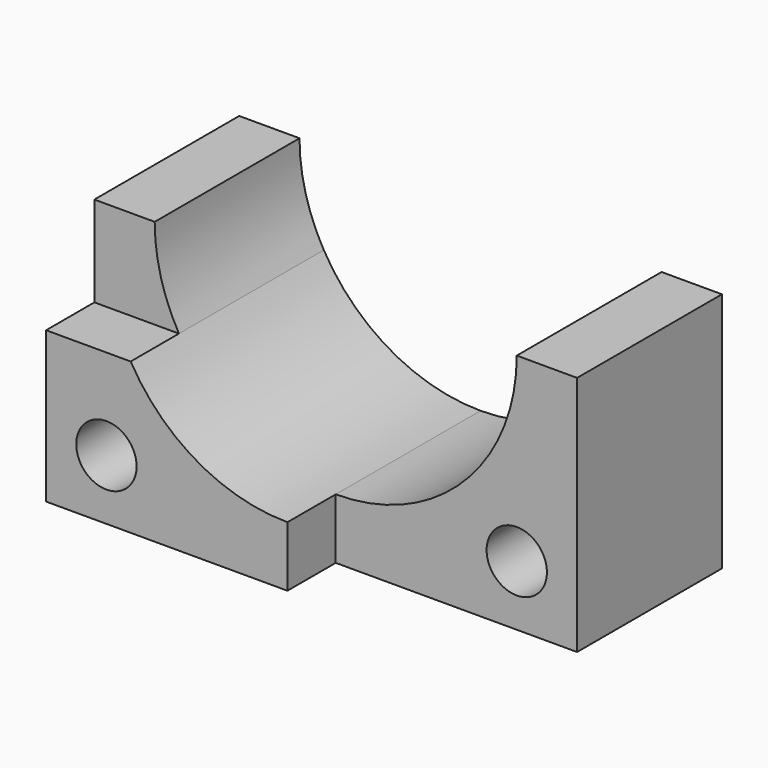
from build123d import *

# Parameters (mm, degrees)
F0_R     = 5
F1_DEPTH = 30
F2_DEPTH = 40


with BuildPart() as f1:
    # F0 (on Front) → F1 (new body)
    with BuildSketch(Plane.XZ):
        with BuildLine():
            Line((40, 10), (40, 0))
            Line((40, 0), (80, 0))
            Line((80, 0), (80, 40))
            Line((80, 40), (70, 40))
            ThreePointArc((70, 40), (61.213203, 18.786797), (40, 10))
        make_face()
        with Locations((70, 10)):
            Circle(F0_R, mode=Mode.SUBTRACT)
        with BuildLine():
            Line((0, 40), (0, 25))
            Line((0, 25), (14.019238, 25))
            ThreePointArc((14.019238, 25), (11.022225, 32.235429), (10, 40))
            Line((10, 40), (0, 40))
        make_face()
    extrude(amount=F1_DEPTH)

    # F0 (on Front) → F2 (join)
    with BuildSketch(Plane.XZ):
        with BuildLine():
            Line((0, 25), (0, 0))
            Line((0, 0), (40, 0))
            Line((40, 0), (40, 10))
            ThreePointArc((40, 10), (25, 14.019238), (14.019238, 25))
            Line((14.019238, 25), (0, 25))
        make_face()
        with Locations((10, 10)):
            Circle(F0_R, mode=Mode.SUBTRACT)
    extrude(amount=F2_DEPTH)


solid = f1.part
